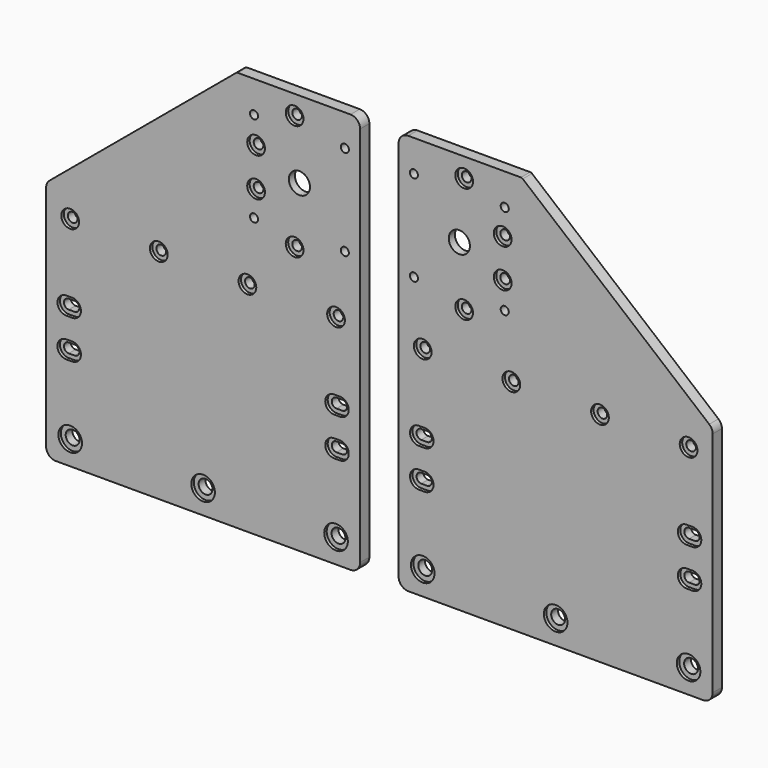
from build123d import *

# Parameters (mm, degrees)
F0_R     = 6.125
F0_R_2   = 4.6
F0_R_3   = 2.1
F0_R_4   = 5.5
F0_R_5   = 3.6
F0_R_6   = 2.5
F1_DEPTH = 6
F2_DEPTH = 1.6
F3_R     = 8.05
F3_R_2   = 5.5
F4_DEPTH = 2


with BuildPart() as f1:
    # F0 (on Front) → F1 (new body)
    with BuildSketch(Plane.XZ):
        with BuildLine():
            ThreePointArc((-81.500072, -57.8), (-80.035606, -61.335534), (-76.500072, -62.8))
            Line((-76.500072, -62.8), (76.500072, -62.8))
            ThreePointArc((76.500072, -62.8), (80.035606, -61.335534), (81.500072, -57.8))
            Line((81.500072, -57.8), (81.500072, 60.458124))
            ThreePointArc((81.500072, 60.458124), (81.028019, 62.578902), (79.700993, 64.299232))
            Line((79.700993, 64.299232), (-17.082798, 144.952332))
            ThreePointArc((-17.082798, 144.952332), (-17.532437, 145.210407), (-18.043075, 145.3))
            Line((-18.043075, 145.3), (-76.500072, 145.3))
            ThreePointArc((-76.500072, 145.3), (-80.035606, 143.835534), (-81.500072, 140.3))
            Line((-81.500072, 140.3), (-81.500072, -57.8))
        make_face()
        with Locations((-69.000072, -50.3)):
            Circle(F0_R, mode=Mode.SUBTRACT)
        with BuildLine():
            ThreePointArc((-71, -14.6), (-75.6, -10), (-71, -5.4))
            Line((-71, -5.4), (-68, -5.4))
            ThreePointArc((-68, -5.4), (-63.4, -10), (-68, -14.6))
            Line((-68, -14.6), (-71, -14.6))
        make_face(mode=Mode.SUBTRACT)
        with BuildLine():
            Line((-68, 5.4), (-71, 5.4))
            ThreePointArc((-71, 5.4), (-75.6, 10), (-71, 14.6))
            Line((-71, 14.6), (-68, 14.6))
            ThreePointArc((-68, 14.6), (-63.4, 10), (-68, 5.4))
        make_face(mode=Mode.SUBTRACT)
        with Locations((0, -50.3)):
            Circle(F0_R, mode=Mode.SUBTRACT)
        with Locations((69.000072, -50.3)):
            Circle(F0_R, mode=Mode.SUBTRACT)
        with BuildLine():
            Line((68, -5.4), (71, -5.4))
            ThreePointArc((71, -5.4), (75.6, -10), (71, -14.6))
            Line((71, -14.6), (68, -14.6))
            ThreePointArc((68, -14.6), (63.4, -10), (68, -5.4))
        make_face(mode=Mode.SUBTRACT)
        with BuildLine():
            Line((68, 14.6), (71, 14.6))
            ThreePointArc((71, 14.6), (75.6, 10), (71, 5.4))
            Line((71, 5.4), (68, 5.4))
            ThreePointArc((68, 5.4), (63.4, 10), (68, 14.6))
        make_face(mode=Mode.SUBTRACT)
        with Locations((-69, 50.3)):
            Circle(F0_R_2, mode=Mode.SUBTRACT)
        with Locations((-73.57, 81.73)):
            Circle(F0_R_3, mode=Mode.SUBTRACT)
        with Locations((-47.5, 75.3)):
            Circle(F0_R_2, mode=Mode.SUBTRACT)
        with Locations((-23, 50.3)):
            Circle(F0_R_2, mode=Mode.SUBTRACT)
        with Locations((-26.43, 81.73)):
            Circle(F0_R_3, mode=Mode.SUBTRACT)
        with Locations((-50, 105.3)):
            Circle(F0_R_4, mode=Mode.SUBTRACT)
        with Locations((-73.57, 128.87)):
            Circle(F0_R_3, mode=Mode.SUBTRACT)
        with Locations((-47.5, 135.3)):
            Circle(F0_R_2, mode=Mode.SUBTRACT)
        with Locations((-27.5, 95.3)):
            Circle(F0_R_2, mode=Mode.SUBTRACT)
        with Locations((-27.5, 115.3)):
            Circle(F0_R_2, mode=Mode.SUBTRACT)
        with Locations((-26.43, 128.87)):
            Circle(F0_R_3, mode=Mode.SUBTRACT)
        with Locations((23, 50.3)):
            Circle(F0_R_2, mode=Mode.SUBTRACT)
        with Locations((69, 50.3)):
            Circle(F0_R_2, mode=Mode.SUBTRACT)
        with BuildLine():
            Line((-68, -5.4), (-71, -5.4))
            ThreePointArc((-71, -5.4), (-75.6, -10), (-71, -14.6))
            Line((-71, -14.6), (-68, -14.6))
            ThreePointArc((-68, -14.6), (-63.4, -10), (-68, -5.4))
        make_face()
        with BuildLine():
            ThreePointArc((-68, -7.5), (-65.5, -10), (-68, -12.5))
            Line((-68, -12.5), (-71, -12.5))
            ThreePointArc((-71, -12.5), (-73.5, -10), (-71, -7.5))
            Line((-71, -7.5), (-68, -7.5))
        make_face(mode=Mode.SUBTRACT)
        with BuildLine():
            ThreePointArc((-71, 14.6), (-75.6, 10), (-71, 5.4))
            Line((-71, 5.4), (-68, 5.4))
            ThreePointArc((-68, 5.4), (-63.4, 10), (-68, 14.6))
            Line((-68, 14.6), (-71, 14.6))
        make_face()
        with BuildLine():
            Line((-68, 7.5), (-71, 7.5))
            ThreePointArc((-71, 7.5), (-73.5, 10), (-71, 12.5))
            Line((-71, 12.5), (-68, 12.5))
            ThreePointArc((-68, 12.5), (-65.5, 10), (-68, 7.5))
        make_face(mode=Mode.SUBTRACT)
        with Locations((-69.000072, -50.3)):
            Circle(F0_R)
        with Locations((-69.000072, -50.3)):
            Circle(F0_R_5, mode=Mode.SUBTRACT)
        with Locations((0, -50.3)):
            Circle(F0_R)
        with Locations((0, -50.3)):
            Circle(F0_R_5, mode=Mode.SUBTRACT)
        with Locations((69.000072, -50.3)):
            Circle(F0_R)
        with Locations((69.000072, -50.3)):
            Circle(F0_R_5, mode=Mode.SUBTRACT)
        with BuildLine():
            ThreePointArc((71, -14.6), (75.6, -10), (71, -5.4))
            Line((71, -5.4), (68, -5.4))
            ThreePointArc((68, -5.4), (63.4, -10), (68, -14.6))
            Line((68, -14.6), (71, -14.6))
        make_face()
        with BuildLine():
            ThreePointArc((71, -7.5), (73.5, -10), (71, -12.5))
            Line((71, -12.5), (68, -12.5))
            ThreePointArc((68, -12.5), (65.5, -10), (68, -7.5))
            Line((68, -7.5), (71, -7.5))
        make_face(mode=Mode.SUBTRACT)
        with BuildLine():
            ThreePointArc((71, 5.4), (75.6, 10), (71, 14.6))
            Line((71, 14.6), (68, 14.6))
            ThreePointArc((68, 14.6), (63.4, 10), (68, 5.4))
            Line((68, 5.4), (71, 5.4))
        make_face()
        with BuildLine():
            ThreePointArc((71, 12.5), (73.5, 10), (71, 7.5))
            Line((71, 7.5), (68, 7.5))
            ThreePointArc((68, 7.5), (65.5, 10), (68, 12.5))
            Line((68, 12.5), (71, 12.5))
        make_face(mode=Mode.SUBTRACT)
        with Locations((-23, 50.3)):
            Circle(F0_R_2)
        with Locations((-23, 50.3)):
            Circle(F0_R_6, mode=Mode.SUBTRACT)
        with Locations((23, 50.3)):
            Circle(F0_R_2)
        with Locations((23, 50.3)):
            Circle(F0_R_6, mode=Mode.SUBTRACT)
        with Locations((69, 50.3)):
            Circle(F0_R_2)
        with Locations((69, 50.3)):
            Circle(F0_R_6, mode=Mode.SUBTRACT)
        with Locations((-69, 50.3)):
            Circle(F0_R_2)
        with Locations((-69, 50.3)):
            Circle(F0_R_6, mode=Mode.SUBTRACT)
        with Locations((-47.5, 75.3)):
            Circle(F0_R_2)
        with Locations((-47.5, 75.3)):
            Circle(F0_R_6, mode=Mode.SUBTRACT)
        with Locations((-27.5, 95.3)):
            Circle(F0_R_2)
        with Locations((-27.5, 95.3)):
            Circle(F0_R_6, mode=Mode.SUBTRACT)
        with Locations((-27.5, 115.3)):
            Circle(F0_R_2)
        with Locations((-27.5, 115.3)):
            Circle(F0_R_6, mode=Mode.SUBTRACT)
        with Locations((-47.5, 135.3)):
            Circle(F0_R_2)
        with Locations((-47.5, 135.3)):
            Circle(F0_R_6, mode=Mode.SUBTRACT)
    extrude(amount=-F1_DEPTH)

    # F0 (on Front) → F2 (cut)
    with BuildSketch(Plane.XZ):
        with Locations((-47.5, 135.3)):
            Circle(F0_R_2)
        with Locations((-47.5, 135.3)):
            Circle(F0_R_6, mode=Mode.SUBTRACT)
        with Locations((-27.5, 115.3)):
            Circle(F0_R_2)
        with Locations((-27.5, 115.3)):
            Circle(F0_R_6, mode=Mode.SUBTRACT)
        with Locations((-47.5, 75.3)):
            Circle(F0_R_2)
        with Locations((-47.5, 75.3)):
            Circle(F0_R_6, mode=Mode.SUBTRACT)
        with Locations((-27.5, 95.3)):
            Circle(F0_R_2)
        with Locations((-27.5, 95.3)):
            Circle(F0_R_6, mode=Mode.SUBTRACT)
        with BuildLine():
            ThreePointArc((-71, 14.6), (-75.6, 10), (-71, 5.4))
            Line((-71, 5.4), (-68, 5.4))
            ThreePointArc((-68, 5.4), (-63.4, 10), (-68, 14.6))
            Line((-68, 14.6), (-71, 14.6))
        make_face()
        with BuildLine():
            Line((-68, 7.5), (-71, 7.5))
            ThreePointArc((-71, 7.5), (-73.5, 10), (-71, 12.5))
            Line((-71, 12.5), (-68, 12.5))
            ThreePointArc((-68, 12.5), (-65.5, 10), (-68, 7.5))
        make_face(mode=Mode.SUBTRACT)
        with BuildLine():
            Line((-68, -5.4), (-71, -5.4))
            ThreePointArc((-71, -5.4), (-75.6, -10), (-71, -14.6))
            Line((-71, -14.6), (-68, -14.6))
            ThreePointArc((-68, -14.6), (-63.4, -10), (-68, -5.4))
        make_face()
        with BuildLine():
            ThreePointArc((-68, -7.5), (-65.5, -10), (-68, -12.5))
            Line((-68, -12.5), (-71, -12.5))
            ThreePointArc((-71, -12.5), (-73.5, -10), (-71, -7.5))
            Line((-71, -7.5), (-68, -7.5))
        make_face(mode=Mode.SUBTRACT)
        with Locations((-69, 50.3)):
            Circle(F0_R_2)
        with Locations((-69, 50.3)):
            Circle(F0_R_6, mode=Mode.SUBTRACT)
        with Locations((-23, 50.3)):
            Circle(F0_R_2)
        with Locations((-23, 50.3)):
            Circle(F0_R_6, mode=Mode.SUBTRACT)
        with Locations((23, 50.3)):
            Circle(F0_R_2)
        with Locations((23, 50.3)):
            Circle(F0_R_6, mode=Mode.SUBTRACT)
        with Locations((69, 50.3)):
            Circle(F0_R_2)
        with Locations((69, 50.3)):
            Circle(F0_R_6, mode=Mode.SUBTRACT)
        with BuildLine():
            ThreePointArc((71, 5.4), (75.6, 10), (71, 14.6))
            Line((71, 14.6), (68, 14.6))
            ThreePointArc((68, 14.6), (63.4, 10), (68, 5.4))
            Line((68, 5.4), (71, 5.4))
        make_face()
        with BuildLine():
            ThreePointArc((71, 12.5), (73.5, 10), (71, 7.5))
            Line((71, 7.5), (68, 7.5))
            ThreePointArc((68, 7.5), (65.5, 10), (68, 12.5))
            Line((68, 12.5), (71, 12.5))
        make_face(mode=Mode.SUBTRACT)
        with BuildLine():
            ThreePointArc((71, -14.6), (75.6, -10), (71, -5.4))
            Line((71, -5.4), (68, -5.4))
            ThreePointArc((68, -5.4), (63.4, -10), (68, -14.6))
            Line((68, -14.6), (71, -14.6))
        make_face()
        with BuildLine():
            ThreePointArc((71, -7.5), (73.5, -10), (71, -12.5))
            Line((71, -12.5), (68, -12.5))
            ThreePointArc((68, -12.5), (65.5, -10), (68, -7.5))
            Line((68, -7.5), (71, -7.5))
        make_face(mode=Mode.SUBTRACT)
        with Locations((69.000072, -50.3)):
            Circle(F0_R)
        with Locations((69.000072, -50.3)):
            Circle(F0_R_5, mode=Mode.SUBTRACT)
        with Locations((0, -50.3)):
            Circle(F0_R)
        with Locations((0, -50.3)):
            Circle(F0_R_5, mode=Mode.SUBTRACT)
        with Locations((-69.000072, -50.3)):
            Circle(F0_R)
        with Locations((-69.000072, -50.3)):
            Circle(F0_R_5, mode=Mode.SUBTRACT)
    extrude(amount=-F2_DEPTH, mode=Mode.SUBTRACT)

    # F3 (on face) → F4 (cut)
    with BuildSketch(Plane(origin=(0, 6, 0), x_dir=(-1, 0, 0), z_dir=(0, 1, 0))):
        with Locations((50, 105.3)):
            Circle(F3_R)
        with Locations((50, 105.3)):
            Circle(F3_R_2, mode=Mode.SUBTRACT)
    extrude(amount=-F4_DEPTH, mode=Mode.SUBTRACT)


with BuildPart() as f5_1:
    # F5: instance of F1
    add(f1.part.mirror(Plane(origin=(-81.500072, 3, 41.25), x_dir=(0, -1, 0), z_dir=(-1, 0, 0))))


with BuildPart() as f5_1_1:
    # F6: moved
    add(f5_1.part.moved(Location((-20, 0, 0))))


solid = Compound([f1.part, f5_1_1.part])
